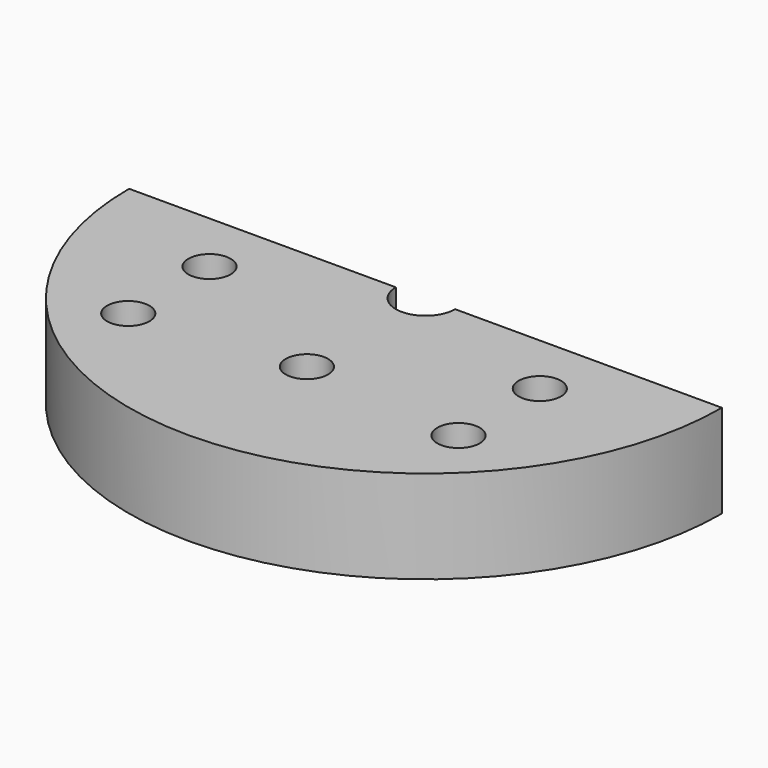
from build123d import *

# Parameters (mm, degrees)
PAD_DEPTH       = 22
SKETCH001_R     = 5
PAD001_DEPTH    = 17
POCKET_DEPTH    = 17
SKETCH002_R     = 5
POCKET001_DEPTH = 22


with BuildPart() as part:
    # Sketch → Pad (new body)
    with BuildSketch(Plane.XY):
        with BuildLine():
            ThreePointArc((-7, 0), (0, -7), (7, 0))
            Line((7, 0), (70, 0))
            ThreePointArc((-70, 0), (0, -70), (70, 0))
            Line((-70, 0), (-7, 0))
        make_face()
    extrude(amount=PAD_DEPTH)

    # Sketch001 (on Face6 of Pad) → Pad001 (join)
    with BuildSketch(Plane.XY.offset(22)):
        with Locations((-39, -39)):
            Circle(SKETCH001_R)
        with Locations((39, -39)):
            Circle(SKETCH001_R)
        with Locations((-39, -15)):
            Circle(SKETCH001_R)
        with Locations((39, -15)):
            Circle(SKETCH001_R)
    extrude(amount=-PAD001_DEPTH)

    # Sketch001 (on Face6 of Pad) → Pocket (cut)
    with BuildSketch(Plane.XY.offset(22)):
        with Locations((-39, -39)):
            Circle(SKETCH001_R)
        with Locations((39, -39)):
            Circle(SKETCH001_R)
        with Locations((-39, -15)):
            Circle(SKETCH001_R)
        with Locations((39, -15)):
            Circle(SKETCH001_R)
    extrude(amount=-POCKET_DEPTH, mode=Mode.SUBTRACT)

    # Sketch002 → Pocket001 (cut)
    with BuildSketch(Plane.XY):
        with Locations((0, -35)):
            Circle(SKETCH002_R)
    extrude(amount=POCKET001_DEPTH, mode=Mode.SUBTRACT)


solid = part.part
